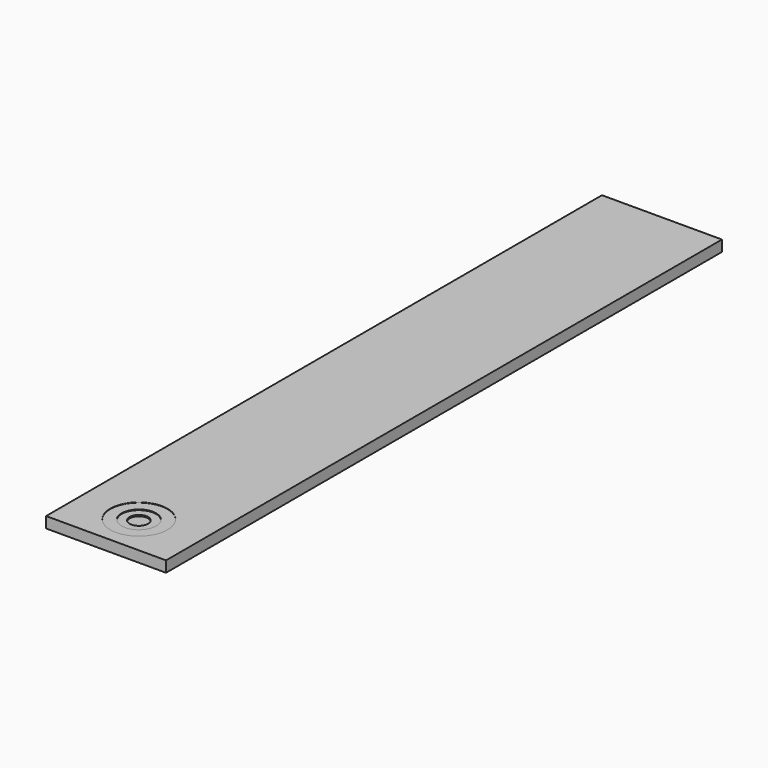
from build123d import *

# Parameters (mm, degrees)
F0_W     = 9.45931
F0_H     = 54.78517
F0_R     = 2.258507
F1_DEPTH = 0.4318
F0_R_2   = 1.35948
F2_DEPTH = 0.4064
F0_R_3   = 0.729172
F3_DEPTH = 0.3556
F4_DEPTH = 0.254


with BuildPart() as f1:
    # F0 (on Top) → F1 (new body, symmetric)
    with BuildSketch(Plane.XY):
        Rectangle(F0_W, F0_H)
        with Locations((0, -24.156982)):
            Circle(F0_R, mode=Mode.SUBTRACT)
    extrude(amount=F1_DEPTH, both=True)

    # F0 (on Top) → F2 (join)
    with BuildSketch(Plane.XY):
        with Locations((0, -24.156982)):
            Circle(F0_R)
        with Locations((0, -24.156982)):
            Circle(F0_R_2, mode=Mode.SUBTRACT)
    extrude(amount=F2_DEPTH)

    # F0 (on Top) → F3 (join)
    with BuildSketch(Plane.XY):
        with Locations((0, -24.156982)):
            Circle(F0_R_2)
        with Locations((0, -24.156982)):
            Circle(F0_R_3, mode=Mode.SUBTRACT)
    extrude(amount=F3_DEPTH)

    # F0 (on Top) → F4 (join)
    with BuildSketch(Plane.XY):
        with Locations((0, -24.156982)):
            Circle(F0_R_3)
    extrude(amount=F4_DEPTH)


solid = f1.part
